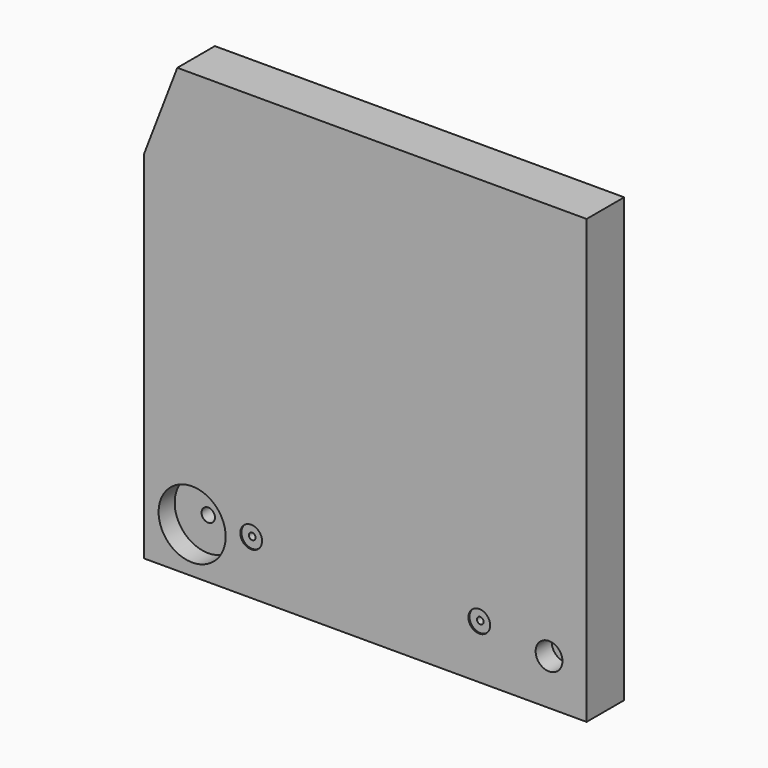
from build123d import *

# Parameters (mm, degrees)
CYLINDER021_R          = 1.65
CYLINDER021_DEPTH      = 10
CYLINDER022_R          = 1.65
CYLINDER022_DEPTH      = 10
CYLINDER023_R          = 1.65
CYLINDER023_DEPTH      = 10
CYLINDER024_R          = 1.65
CYLINDER024_DEPTH      = 10
CYLINDER020_R          = 8.1
CYLINDER020_DEPTH      = 20
CYLINDER019_R          = 8.1
CYLINDER019_DEPTH      = 20
CYLINDER008_R          = 2.5
CYLINDER008_DEPTH      = 20
CYLINDER007_R          = 2.5
CYLINDER007_DEPTH      = 20
CYLINDER006_R          = 142
CYLINDER006_DEPTH      = 180
CYLINDER005_R          = 151
CYLINDER005_DEPTH      = 0.5
CYLINDER004_R          = 155
CYLINDER004_DEPTH      = 0.5
CUT002_PLACEMENT_ANGLE = 90
CYLINDER003_R          = 25
CYLINDER003_DEPTH      = 15
CYLINDER001_R          = 5
CYLINDER001_DEPTH      = 40
CYLINDER_R             = 4.2
CYLINDER_DEPTH         = 40
CYLINDER002_R          = 10
CYLINDER002_DEPTH      = 15
BOX001_W               = 70
BOX001_H               = 35
BOX001_DEPTH           = 50
BOX001_PLACEMENT_ANGLE = 69
BOX_W                  = 330
BOX_H                  = 35
BOX_DEPTH              = 330


with BuildPart() as zylinder021:
    # Cylinder021 → Cylinder021 (new body)
    with BuildSketch(Plane(origin=(25, 35, 25), x_dir=(1, 0, 0), z_dir=(0, -1, 0))):
        Circle(CYLINDER021_R)
    extrude(amount=CYLINDER021_DEPTH)


with BuildPart() as zylinder022:
    # Cylinder022 → Cylinder022 (new body)
    with BuildSketch(Plane(origin=(305, 35, 25), x_dir=(1, 0, 0), z_dir=(0, -1, 0))):
        Circle(CYLINDER022_R)
    extrude(amount=CYLINDER022_DEPTH)


with BuildPart() as zylinder023:
    # Cylinder023 → Cylinder023 (new body)
    with BuildSketch(Plane(origin=(25, 35, 305), x_dir=(1, 0, 0), z_dir=(0, -1, 0))):
        Circle(CYLINDER023_R)
    extrude(amount=CYLINDER023_DEPTH)


with BuildPart() as obj1:
    # Cylinder024 → Cylinder024 (new body)
    with BuildSketch(Plane(origin=(305, 35, 305), x_dir=(1, 0, 0), z_dir=(0, -1, 0))):
        Circle(CYLINDER024_R)
    extrude(amount=CYLINDER024_DEPTH)

    # Fusion006: union Zylinder021, Zylinder022, Zylinder023
    add(zylinder021.part)
    add(zylinder022.part)
    add(zylinder023.part)


with BuildPart() as zylinder020:
    # Cylinder020 → Cylinder020 (new body)
    with BuildSketch(Plane(origin=(80, 1, 40), x_dir=(1, 0, 0), z_dir=(0, -1, 0))):
        Circle(CYLINDER020_R)
    extrude(amount=CYLINDER020_DEPTH)


with BuildPart() as fusion005:
    # Cylinder019 → Cylinder019 (new body)
    with BuildSketch(Plane(origin=(250, 1, 40), x_dir=(1, 0, 0), z_dir=(0, -1, 0))):
        Circle(CYLINDER019_R)
    extrude(amount=CYLINDER019_DEPTH)

    # Fusion005: union Zylinder020
    add(zylinder020.part)


with BuildPart() as zylinder008:
    # Cylinder008 → Cylinder008 (new body)
    with BuildSketch(Plane(origin=(250, 20, 40), x_dir=(1, 0, 0), z_dir=(0, -1, 0))):
        Circle(CYLINDER008_R)
    extrude(amount=CYLINDER008_DEPTH)


with BuildPart() as fusion003:
    # Cylinder007 → Cylinder007 (new body)
    with BuildSketch(Plane(origin=(80, 20, 40), x_dir=(1, 0, 0), z_dir=(0, -1, 0))):
        Circle(CYLINDER007_R)
    extrude(amount=CYLINDER007_DEPTH)

    # Fusion003: union Zylinder008
    add(zylinder008.part)


with BuildPart() as zylinder006:
    # Cylinder006 → Cylinder006 (new body)
    with BuildSketch(Plane(origin=(165, 200, 165), x_dir=(1, 0, 0), z_dir=(0, -1, 0))):
        Circle(CYLINDER006_R)
    extrude(amount=CYLINDER006_DEPTH)


with BuildPart() as zylinder005:
    # Cylinder005 → Cylinder005 (new body)
    with BuildSketch(Plane.XY):
        Circle(CYLINDER005_R)
    extrude(amount=CYLINDER005_DEPTH)


with BuildPart() as cut002:
    # Cylinder004 → Cylinder004 (new body)
    with BuildSketch(Plane.XY):
        Circle(CYLINDER004_R)
    extrude(amount=CYLINDER004_DEPTH)

    # Cut002: cut Zylinder005
    add(zylinder005.part, mode=Mode.SUBTRACT)


with BuildPart() as cut002_1:
    # Cut002 placement: moved
    add(cut002.part.moved(Location((165, 35, 165))).rotate(Axis((165, 35, 165), (1, 0, 0)), CUT002_PLACEMENT_ANGLE))


with BuildPart() as zylinder003:
    # Cylinder003 → Cylinder003 (new body)
    with BuildSketch(Plane(origin=(36, 0, 34), x_dir=(1, 0, 0), z_dir=(0, 1, 0))):
        Circle(CYLINDER003_R)
    extrude(amount=CYLINDER003_DEPTH)


with BuildPart() as fusion001:
    # Cylinder001 → Cylinder001 (new body)
    with BuildSketch(Plane(origin=(36, 0, 34), x_dir=(1, 0, 0), z_dir=(0, 1, 0))):
        Circle(CYLINDER001_R)
    extrude(amount=CYLINDER001_DEPTH)

    # Fusion001: union Zylinder003
    add(zylinder003.part)


with BuildPart() as zylinder:
    # Cylinder → Cylinder (new body)
    with BuildSketch(Plane(origin=(302, 0, 34), x_dir=(1, 0, 0), z_dir=(0, 1, 0))):
        Circle(CYLINDER_R)
    extrude(amount=CYLINDER_DEPTH)


with BuildPart() as fusion002:
    # Cylinder002 → Cylinder002 (new body)
    with BuildSketch(Plane(origin=(302, 0, 34), x_dir=(1, 0, 0), z_dir=(0, 1, 0))):
        Circle(CYLINDER002_R)
    extrude(amount=CYLINDER002_DEPTH)

    # Fusion: union Zylinder
    add(zylinder.part)

    # Fusion002: union Fusion001
    add(fusion001.part)


with BuildPart() as obj2:
    # Box001 → Box001 (new body)
    with BuildSketch(Plane.XY):
        with Locations((35, 17.5)):
            Rectangle(BOX001_W, BOX001_H)
    extrude(amount=BOX001_DEPTH)


with BuildPart() as obj2_1:
    # Box001 placement: moved
    add(obj2.part.moved(Location((0, 0, 265))).rotate(Axis((0, 0, 265), (0, -1, 0)), BOX001_PLACEMENT_ANGLE))


with BuildPart() as simplefrontdoor01:
    # Box → Box (new body)
    with BuildSketch(Plane.XY):
        with Locations((165, 17.5)):
            Rectangle(BOX_W, BOX_H)
    extrude(amount=BOX_DEPTH)

    # Cut: cut obj2
    add(obj2_1.part, mode=Mode.SUBTRACT)

    # Cut001: cut Fusion002
    add(fusion002.part, mode=Mode.SUBTRACT)

    # Cut003: cut Cut002
    add(cut002_1.part, mode=Mode.SUBTRACT)

    # Cut004: cut Zylinder006
    add(zylinder006.part, mode=Mode.SUBTRACT)

    # Cut005: cut Fusion003
    add(fusion003.part, mode=Mode.SUBTRACT)

    # Cut011: cut Fusion005
    add(fusion005.part, mode=Mode.SUBTRACT)

    # Cut012: cut obj1
    add(obj1.part, mode=Mode.SUBTRACT)


solid = simplefrontdoor01.part
